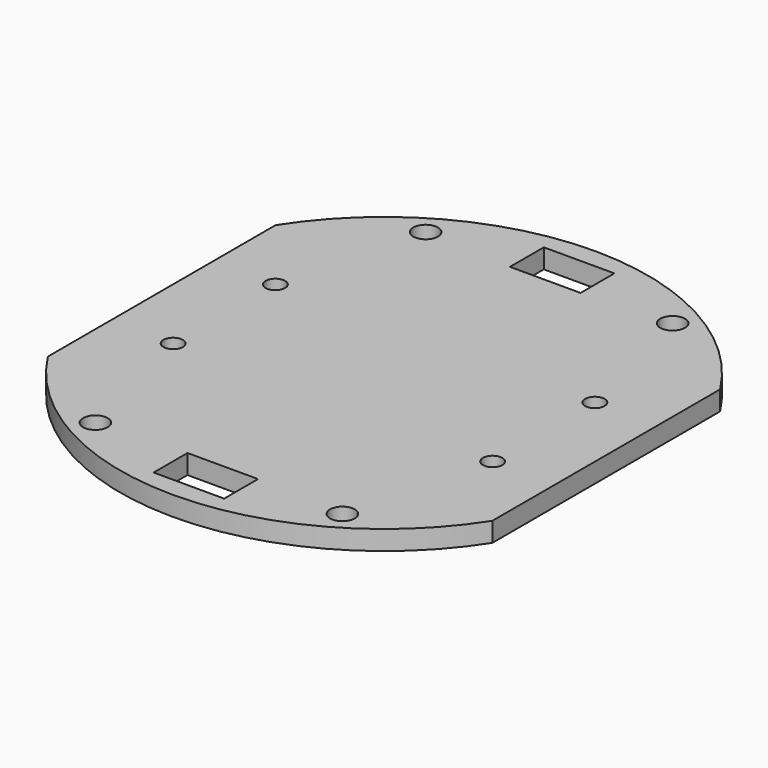
from build123d import *

# Parameters (mm, degrees)
F0_R     = 2.2225
F0_R_2   = 1.75
F0_W     = 12.7
F0_H     = 7.62
F1_DEPTH = 3.5


with BuildPart() as f1:
    # F0 (on Top) → F1 (new body)
    with BuildSketch(Plane.XY):
        with BuildLine():
            Line((40, -25.617377), (40, 25.617377))
            ThreePointArc((40, 25.617377), (0, 47.5), (-40, 25.617377))
            Line((-40, 25.617377), (-40, -25.617377))
            ThreePointArc((-40, -25.617377), (0, -47.5), (40, -25.617377))
        make_face()
        with Locations((-22.225, -37.1475)):
            Circle(F0_R, mode=Mode.SUBTRACT)
        with Locations((-28.75, -11.5)):
            Circle(F0_R_2, mode=Mode.SUBTRACT)
        with Locations((0, -40.081665)):
            Rectangle(F0_W, F0_H, mode=Mode.SUBTRACT)
        with Locations((22.225, -37.1475)):
            Circle(F0_R, mode=Mode.SUBTRACT)
        with Locations((28.75, -11.5)):
            Circle(F0_R_2, mode=Mode.SUBTRACT)
        with Locations((-28.75, 11.5)):
            Circle(F0_R_2, mode=Mode.SUBTRACT)
        with Locations((-22.225, 37.1475)):
            Circle(F0_R, mode=Mode.SUBTRACT)
        with Locations((28.75, 11.5)):
            Circle(F0_R_2, mode=Mode.SUBTRACT)
        with Locations((0, 40.081665)):
            Rectangle(F0_W, F0_H, mode=Mode.SUBTRACT)
        with Locations((22.225, 37.1475)):
            Circle(F0_R, mode=Mode.SUBTRACT)
    extrude(amount=F1_DEPTH)


solid = f1.part
